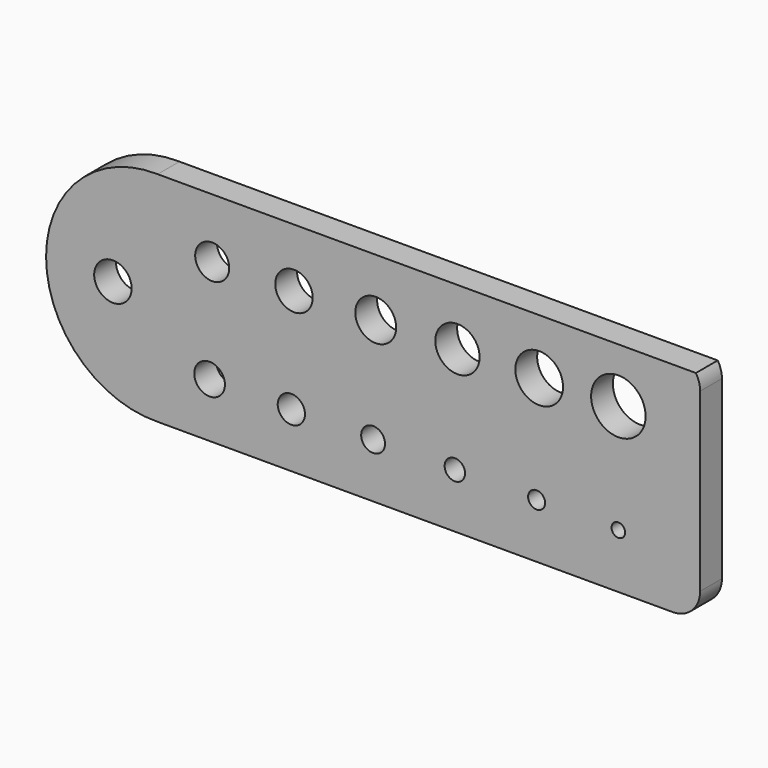
from build123d import *

# Parameters (mm, degrees)
F0_R     = 4.365625
F0_R_2   = 3.571875
F0_R_3   = 3.175
F0_R_4   = 2.778125
F0_R_5   = 2.38125
F0_R_6   = 1.984375
F0_R_7   = 1.5875
F0_R_8   = 3.96875
F0_R_9   = 4.7625
F0_R_10  = 5.159375
F0_R_11  = 5.55625
F0_R_12  = 6.35
F1_DEPTH = 6.35


with BuildPart() as f1:
    # F0 (on Front) → F1 (new body)
    with BuildSketch(Plane.XZ):
        with BuildLine():
            ThreePointArc((0, 50.8), (-26.004939, 25.4), (0, 0))
            Line((0, 0), (120.045061, 0))
            ThreePointArc((120.045061, 0), (124.53519, 1.859872), (126.395061, 6.35))
            Line((126.395061, 6.35), (126.395061, 47.406904))
            ThreePointArc((126.395061, 47.406904), (126.144477, 49.173152), (125.4125, 50.8))
            Line((125.4125, 50.8), (0, 50.8))
        make_face()
        with Locations((-10.43129, 25.378589)):
            Circle(F0_R, mode=Mode.SUBTRACT)
        with Locations((12.095061, 12.7)):
            Circle(F0_R_2, mode=Mode.SUBTRACT)
        with Locations((31.145061, 12.7)):
            Circle(F0_R_3, mode=Mode.SUBTRACT)
        with Locations((50.195061, 12.7)):
            Circle(F0_R_4, mode=Mode.SUBTRACT)
        with Locations((69.245061, 12.7)):
            Circle(F0_R_5, mode=Mode.SUBTRACT)
        with Locations((88.295061, 12.7)):
            Circle(F0_R_6, mode=Mode.SUBTRACT)
        with Locations((107.345061, 12.7)):
            Circle(F0_R_7, mode=Mode.SUBTRACT)
        with Locations((12.706912, 36.952493)):
            Circle(F0_R_8, mode=Mode.SUBTRACT)
        with Locations((31.75553, 37.181994)):
            Circle(F0_R, mode=Mode.SUBTRACT)
        with Locations((50.804147, 37.411496)):
            Circle(F0_R_9, mode=Mode.SUBTRACT)
        with Locations((69.852765, 37.640997)):
            Circle(F0_R_10, mode=Mode.SUBTRACT)
        with Locations((88.901382, 37.870499)):
            Circle(F0_R_11, mode=Mode.SUBTRACT)
        with Locations((107.345061, 38.1)):
            Circle(F0_R_12, mode=Mode.SUBTRACT)
    extrude(amount=F1_DEPTH)


solid = f1.part
